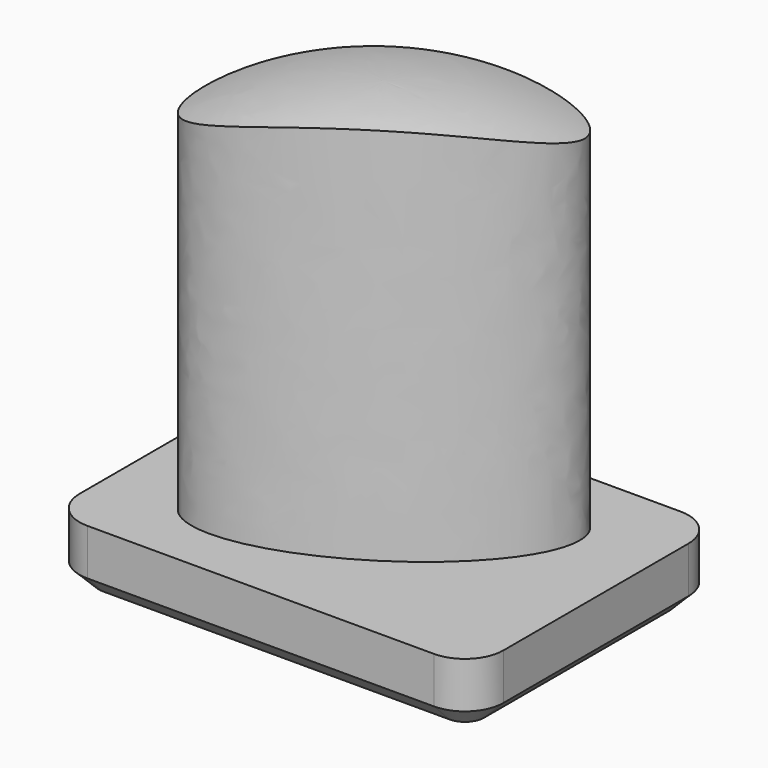
from build123d import *

# Parameters (mm, degrees)
SKETCH_W        = 100
SKETCH_H        = 100
POCKET_DEPTH    = 10.001
PAD_DEPTH       = 1.7
POCKET001_DEPTH = 5
CHAMFER_SIZE    = 0.5


with BuildPart() as part:
    # Sphere → Sphere (revolve)
    with BuildSketch(Plane.XZ):
        with BuildLine():
            ThreePointArc((10, 0), (7.071068, 7.071068), (0, 10))
            Line((0, 10), (0, 0))
            Line((0, 0), (10, 0))
        make_face()
    revolve(axis=Axis((0, 0, 0), (0, 0, 1)))

    # Sketch → Pocket (cut, through all)
    with BuildSketch(Plane(origin=(0, 0, 0), x_dir=(-1, 0, 0), z_dir=(0, 0, -1))):
        Rectangle(SKETCH_W, SKETCH_H)
        with BuildLine():
            add(Edge.make_bspline(
                [(3.557912, -2.231874), (5.260669, 0.482554), (-0.927577, 2.473151), (-7.115824, 4.463748), (-2.630335, -0.241277), (1.855155, -4.946302), (3.557912, -2.231874)],
                knots=[0, 0, 0, 2.094395, 2.094395, 4.18879, 4.18879, 6.283185, 6.283185, 6.283185], degree=2, weights=[1, 0.5, 1, 0.5, 1, 0.5, 1]))
        make_face(mode=Mode.SUBTRACT)
    extrude(amount=-POCKET_DEPTH, mode=Mode.SUBTRACT)

    # Sketch001 (on Face3 of Pocket) → Pad (join)
    with BuildSketch(Plane(origin=(0, 0, 0), x_dir=(1, 0, 0), z_dir=(0, 0, -1))):
        with BuildLine():
            Line((4.5, -4), (-4.5, -4))
            ThreePointArc((-5.5, -3), (-5.207107, -3.707107), (-4.5, -4))
            Line((-5.5, -3), (-5.5, 3))
            ThreePointArc((-4.5, 4), (-5.207107, 3.707107), (-5.5, 3))
            Line((-4.5, 4), (4.5, 4))
            ThreePointArc((5.5, 3), (5.207107, 3.707107), (4.5, 4))
            Line((5.5, 3), (5.5, -3))
            ThreePointArc((4.5, -4), (5.207107, -3.707107), (5.5, -3))
        make_face()
    extrude(amount=PAD_DEPTH)

    # Sketch002 (on Face5 of Pad) → Pocket001 (cut)
    with BuildSketch(Plane(origin=(0, 0, -1.7), x_dir=(1, 0, 0), z_dir=(0, 0, -1))):
        Polygon((-0.347296, 1.516373), (1.516373, 0.347296), (0.347296, -1.516373), (-1.516373, -0.347296), align=None)
    extrude(amount=-POCKET001_DEPTH, mode=Mode.SUBTRACT)

    # Chamfer
    chamfer_edges = [part.edges().sort_by_distance(p)[0] for p in [
        (5.5, 0, -1.7),
        (5.207107, -3.707107, -1.7),
        (5.207107, 3.707107, -1.7),
        (0, -4, -1.7),
        (0, 4, -1.7),
        (-5.207107, -3.707107, -1.7),
        (-5.207107, 3.707107, -1.7),
        (-5.5, 0, -1.7),
        (0.584538, -0.931834, -1.7),
        (0.931834, 0.584538, -1.7),
        (-0.584538, 0.931834, -1.7),
        (-0.931834, -0.584538, -1.7),
    ]]
    chamfer(chamfer_edges, length=CHAMFER_SIZE)


solid = part.part
